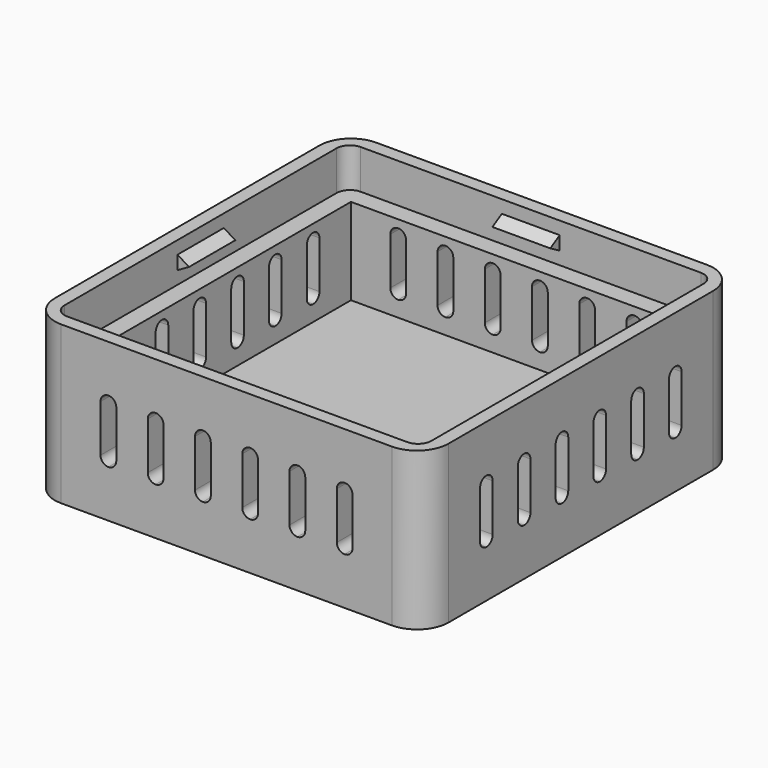
from build123d import *

# Parameters (mm, degrees)
F0_W      = 50
F0_H      = 50
F1_DEPTH  = 20
F2_T      = -4
F3_R      = 4
F5_DEPTH  = 50
F7_DEPTH  = 50.001
F8_W      = 46.6
F8_H      = 46.6
F9_DEPTH  = 5
F10_R     = 1.7
F12_DEPTH = 3.675
F14_DEPTH = 3.675


with BuildPart() as f1:
    # F0 (on Top) → F1 (new body)
    with BuildSketch(Plane.XY):
        Rectangle(F0_W, F0_H)
    extrude(amount=F1_DEPTH)

    # F2
    f2_openings = [f1.faces().sort_by_distance(p)[0] for p in [
        (0, 0, 20),
    ]]
    offset(amount=F2_T, openings=f2_openings)

    # F3
    f3_edges = [f1.edges().sort_by_distance(p)[0] for p in [
        (-25, -25, 10),
        (25, -25, 10),
        (25, 25, 10),
        (-25, 25, 10),
    ]]
    fillet(f3_edges, radius=F3_R)

    # F4 (on face) → F5 (cut)
    with BuildSketch(Plane.XZ.offset(25)):
        with BuildLine():
            ThreePointArc((-15, 6), (-14.292893, 6.292893), (-14, 7))
            Line((-14, 7), (-14, 13))
            ThreePointArc((-14, 13), (-14.292893, 13.707107), (-15, 14))
            ThreePointArc((-15, 14), (-15.707107, 13.707107), (-16, 13))
            Line((-16, 13), (-16, 7))
            ThreePointArc((-16, 7), (-15.707107, 6.292893), (-15, 6))
        make_face()
        with BuildLine():
            Line((-10, 13), (-10, 7))
            ThreePointArc((-10, 7), (-9.707107, 6.292893), (-9, 6))
            ThreePointArc((-9, 6), (-8.292893, 6.292893), (-8, 7))
            Line((-8, 7), (-8, 13))
            ThreePointArc((-8, 13), (-8.292893, 13.707107), (-9, 14))
            ThreePointArc((-9, 14), (-9.707107, 13.707107), (-10, 13))
        make_face()
        with BuildLine():
            Line((-4, 13), (-4, 7))
            ThreePointArc((-4, 7), (-3.707107, 6.292893), (-3, 6))
            ThreePointArc((-3, 6), (-2.292893, 6.292893), (-2, 7))
            Line((-2, 7), (-2, 13))
            ThreePointArc((-2, 13), (-2.292893, 13.707107), (-3, 14))
            ThreePointArc((-3, 14), (-3.707107, 13.707107), (-4, 13))
        make_face()
        with BuildLine():
            Line((2, 13), (2, 7))
            ThreePointArc((2, 7), (2.292893, 6.292893), (3, 6))
            ThreePointArc((3, 6), (3.707107, 6.292893), (4, 7))
            Line((4, 7), (4, 13))
            ThreePointArc((4, 13), (3.707107, 13.707107), (3, 14))
            ThreePointArc((3, 14), (2.292893, 13.707107), (2, 13))
        make_face()
        with BuildLine():
            Line((8, 13), (8, 7))
            ThreePointArc((8, 7), (8.292893, 6.292893), (9, 6))
            ThreePointArc((9, 6), (9.707107, 6.292893), (10, 7))
            Line((10, 7), (10, 13))
            ThreePointArc((10, 13), (9.707107, 13.707107), (9, 14))
            ThreePointArc((9, 14), (8.292893, 13.707107), (8, 13))
        make_face()
        with BuildLine():
            ThreePointArc((15, 6), (15.707107, 6.292893), (16, 7))
            Line((16, 7), (16, 13))
            ThreePointArc((16, 13), (15.707107, 13.707107), (15, 14))
            ThreePointArc((15, 14), (14.292893, 13.707107), (14, 13))
            Line((14, 13), (14, 7))
            ThreePointArc((14, 7), (14.292893, 6.292893), (15, 6))
        make_face()
    extrude(amount=-F5_DEPTH, mode=Mode.SUBTRACT)

    # F6 (on face) → F7 (cut, through all)
    with BuildSketch(Plane.YZ.offset(25)):
        with BuildLine():
            ThreePointArc((-15, 6), (-14.292893, 6.292893), (-14, 7))
            Line((-14, 7), (-14, 13))
            ThreePointArc((-14, 13), (-14.292893, 13.707107), (-15, 14))
            ThreePointArc((-15, 14), (-15.707107, 13.707107), (-16, 13))
            Line((-16, 13), (-16, 7))
            ThreePointArc((-16, 7), (-15.707107, 6.292893), (-15, 6))
        make_face()
        with BuildLine():
            Line((-10, 13), (-10, 7))
            ThreePointArc((-10, 7), (-9.707107, 6.292893), (-9, 6))
            ThreePointArc((-9, 6), (-8.292893, 6.292893), (-8, 7))
            Line((-8, 7), (-8, 13))
            ThreePointArc((-8, 13), (-8.292893, 13.707107), (-9, 14))
            ThreePointArc((-9, 14), (-9.707107, 13.707107), (-10, 13))
        make_face()
        with BuildLine():
            Line((-4, 13), (-4, 7))
            ThreePointArc((-4, 7), (-3.707107, 6.292893), (-3, 6))
            ThreePointArc((-3, 6), (-2.292893, 6.292893), (-2, 7))
            Line((-2, 7), (-2, 13))
            ThreePointArc((-2, 13), (-2.292893, 13.707107), (-3, 14))
            ThreePointArc((-3, 14), (-3.707107, 13.707107), (-4, 13))
        make_face()
        with BuildLine():
            ThreePointArc((9, 6), (9.707107, 6.292893), (10, 7))
            Line((10, 7), (10, 13))
            ThreePointArc((10, 13), (9.707107, 13.707107), (9, 14))
            ThreePointArc((9, 14), (8.292893, 13.707107), (8, 13))
            Line((8, 13), (8, 7))
            ThreePointArc((8, 7), (8.292893, 6.292893), (9, 6))
        make_face()
        with BuildLine():
            ThreePointArc((15, 6), (15.707107, 6.292893), (16, 7))
            Line((16, 7), (16, 13))
            ThreePointArc((16, 13), (15.707107, 13.707107), (15, 14))
            ThreePointArc((15, 14), (14.292893, 13.707107), (14, 13))
            Line((14, 13), (14, 7))
            ThreePointArc((14, 7), (14.292893, 6.292893), (15, 6))
        make_face()
        with BuildLine():
            ThreePointArc((3, 14), (2.292893, 13.707107), (2, 13))
            Line((2, 13), (2, 7))
            ThreePointArc((2, 7), (2.292893, 6.292893), (3, 6))
            ThreePointArc((3, 6), (3.707107, 6.292893), (4, 7))
            Line((4, 7), (4, 13))
            ThreePointArc((4, 13), (3.707107, 13.707107), (3, 14))
        make_face()
    extrude(amount=-F7_DEPTH, mode=Mode.SUBTRACT)

    # F8 (on face) → F9 (cut)
    with BuildSketch(Plane.XY.offset(20)):
        Rectangle(F8_W, F8_H)
    extrude(amount=-F9_DEPTH, mode=Mode.SUBTRACT)

    # F10
    f10_edges = [f1.edges().sort_by_distance(p)[0] for p in [
        (-23.3, 23.3, 17.5),
        (23.3, 23.3, 17.5),
        (23.3, -23.3, 17.5),
        (-23.3, -23.3, 17.5),
    ]]
    fillet(f10_edges, radius=F10_R)

    # F11 (on Right) → F12 (join, symmetric)
    with BuildSketch(Plane.YZ):
        Polygon((23.3, 16.633975), (23.3, 18.366025), (21.8, 17.5), align=None)
        Polygon((-21.8, 17.5), (-23.3, 18.366025), (-23.3, 16.633975), align=None)
    extrude(amount=F12_DEPTH, both=True)

    # F13 (on Front) → F14 (join, symmetric)
    with BuildSketch(Plane.XZ):
        Polygon((23.3, 16.633975), (23.3, 18.366025), (21.8, 17.5), align=None)
        Polygon((-21.8, 17.5), (-23.3, 18.366025), (-23.3, 16.633975), align=None)
    extrude(amount=F14_DEPTH, both=True)


solid = f1.part
